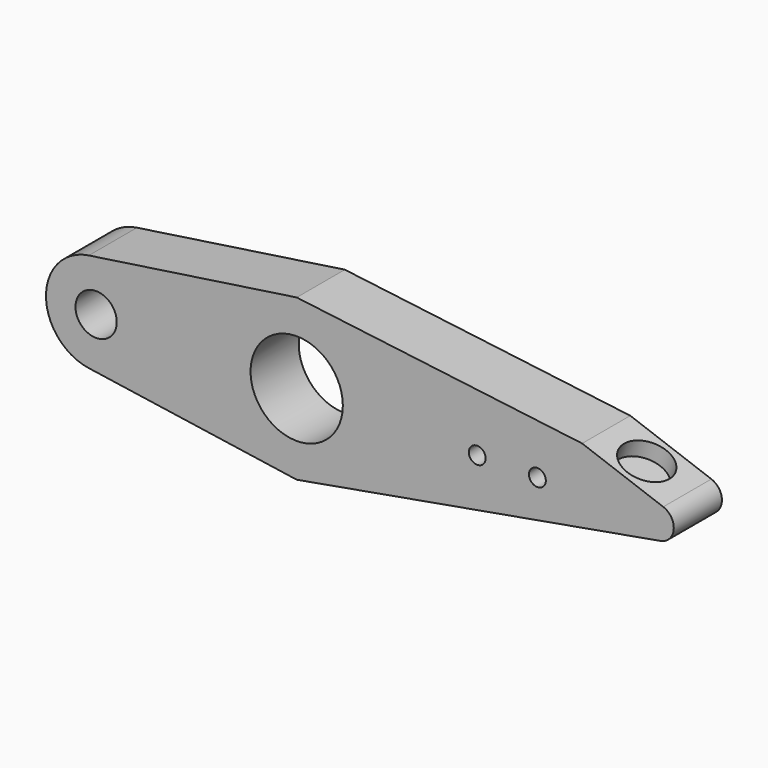
from build123d import *

# Parameters (mm, degrees)
F0_R     = 11.5
F1_DEPTH = 15
F3_D     = 4.2
F4_D     = 10.3
F5_R     = 6
F6_DEPTH = 4.2


with BuildPart() as f1:
    # F0 (on Front) → F1 (new body)
    with BuildSketch(Plane.XZ):
        with BuildLine():
            Line((71.156512348, 11.0983319967), (0, 20))
            Line((0, 20), (-51.8216221637, 12.3665554094))
            ThreePointArc((-51.8216221637, 12.3665554094), (-62.5, 0), (-51.8216221637, -12.3665554094))
            Line((-51.8216221637, -12.3665554094), (0, -20))
            Line((0, -20), (90.6974930025, -3.9387185113))
            ThreePointArc((90.6974930025, -3.9387185113), (93.9850344054, -0.3456888592), (91.3653125965, 3.7597767904))
            Line((91.3653125965, 3.7597767904), (71.156512348, 11.0983319967))
        make_face()
        Circle(F0_R, mode=Mode.SUBTRACT)
    extrude(amount=F1_DEPTH)

    # F3 (through all)
    with Locations(Plane(origin=(0, 0, 0), x_dir=(-1, 0, 0), z_dir=(0, 1, 0))):
        with Locations((-60, 0), (-45, 0)):
            Hole(F3_D / 2)

    # F4 (through all)
    with Locations(Plane(origin=(0, 0, 0), x_dir=(1, 0, 0), z_dir=(0, 1, 0))):
        with Locations((-50, 0)):
            Hole(F4_D / 2)

    # F5 (on face) → F6 (cut)
    with BuildSketch(Plane(origin=(11.8507540815, 0, 32.6344239833), x_dir=(0.9399441976, 0, -0.3413281491), z_dir=(0.3413281491, 0, 0.9399441976))):
        with Locations((73.8449777845, -7.5)):
            Circle(F5_R)
    extrude(amount=-F6_DEPTH, mode=Mode.SUBTRACT)


solid = f1.part
